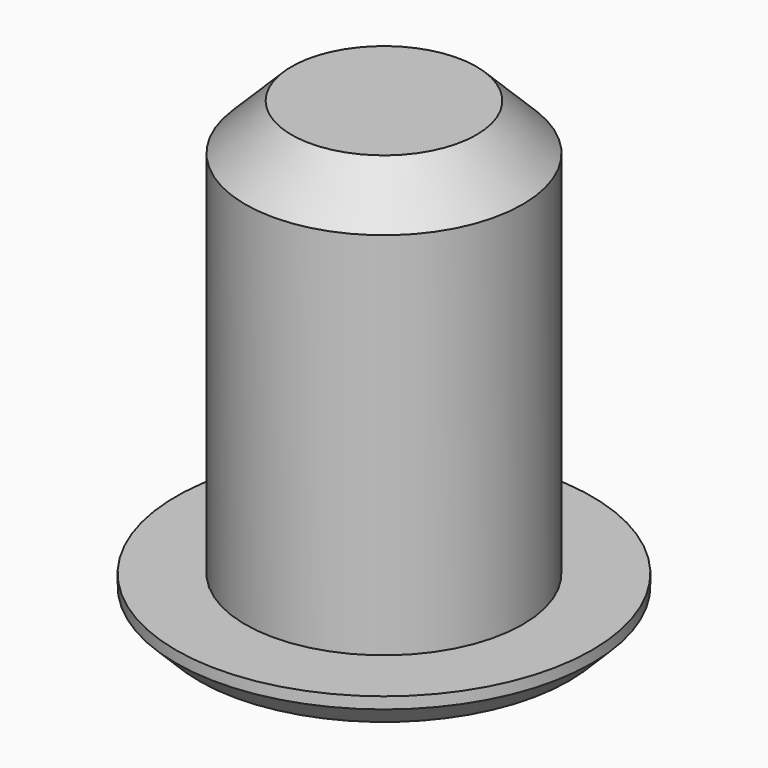
from build123d import *

# Parameters (mm, degrees)
SKETCH_R        = 9
PAD_DEPTH       = 1.5
SKETCH001_R     = 6
PAD001_DEPTH    = 18
CHAMFER_SIZE    = 1
CHAMFER001_SIZE = 2


with BuildPart() as part:
    # Sketch → Pad (new body)
    with BuildSketch(Plane.XY):
        Circle(SKETCH_R)
    extrude(amount=PAD_DEPTH)

    # Sketch001 (on Face3 of Pad) → Pad001 (join)
    with BuildSketch(Plane.XY.offset(1.5)):
        Circle(SKETCH001_R)
    extrude(amount=PAD001_DEPTH)

    # Chamfer
    chamfer_edges = [part.edges().sort_by_distance(p)[0] for p in [
        (-9, 0, 0),
    ]]
    chamfer(chamfer_edges, length=CHAMFER_SIZE)

    # Chamfer001
    chamfer001_edges = [part.edges().sort_by_distance(p)[0] for p in [
        (-6, 0, 19.5),
    ]]
    chamfer(chamfer001_edges, length=CHAMFER001_SIZE)


solid = part.part
